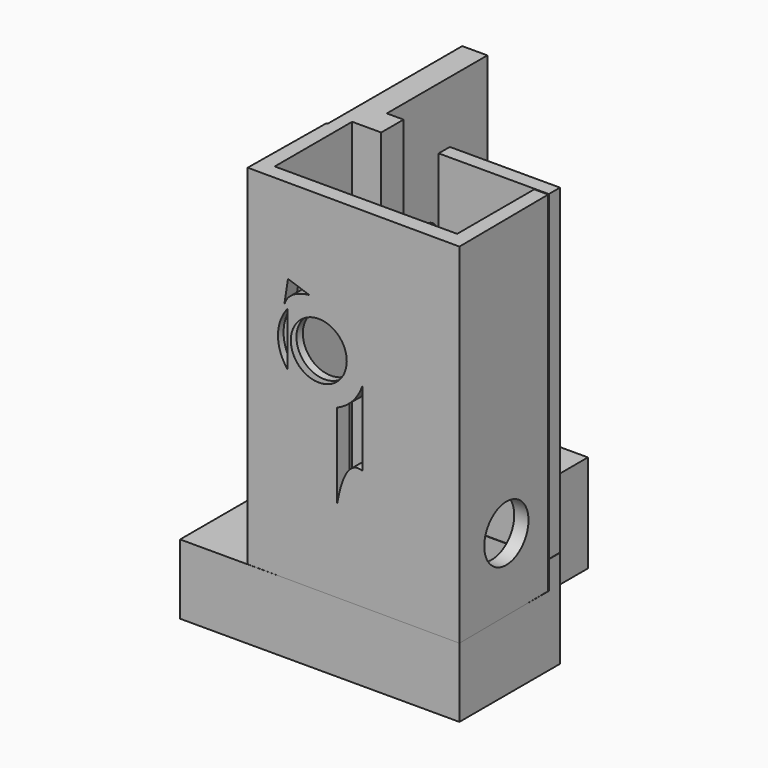
from build123d import *

# Parameters (mm, degrees)
SKETCH_W           = 20
SKETCH_H           = 11
PAD_DEPTH          = 21
SKETCH001_W        = 20
SKETCH001_H        = 5
PAD001_DEPTH       = 8
SKETCH002_W        = 6.4
SKETCH002_H        = 9.70104
POCKET_DEPTH       = 16
SKETCH003_W        = 4
SKETCH003_H        = 2.091244
POCKET001_DEPTH    = 16
SKETCH005_R        = 2.7
POCKET002_DEPTH    = 3
SKETCH006_R        = 1.7
POCKET003_DEPTH    = 15
PAD002_DEPTH       = 1
PAD003_DEPTH       = 1
PAD004_DEPTH       = 8
PAD005_DEPTH       = 8
PAD006_DEPTH       = 1
PAD007_DEPTH       = 1
PAD007_FACE27_W    = 9
PAD007_FACE27_H    = 14
PAD008_DEPTH       = 0.1
PAD008_FACE24_W    = 9
PAD008_FACE24_H    = 14
PAD009_DEPTH       = 0.1
SKETCH009_W        = 11.765216
SKETCH009_H        = 12.105414
POCKET007_DEPTH    = 23
SKETCH010_W        = 8
SKETCH010_H        = 5
PAD010_DEPTH       = 6
PAD011_DEPTH       = 25
SKETCH012_W        = 7.888134
SKETCH012_H        = 1
PAD012_DEPTH       = 23
SKETCH014_R        = 2
POCKET008_DEPTH    = 5
SKETCH016_W        = 9.43169
SKETCH016_H        = 30.019524
POCKET010_DEPTH    = 5
SKETCH019_W        = 10.102889
SKETCH019_H        = 7.195522
POCKET012_DEPTH    = 6
SKETCH020_R        = 4.8264255923
POCKET014_DEPTH    = 0.5
POCKET015_DEPTH    = 2
COPYSKETCH024_R    = 1.1
POCKET017_DEPTH    = 3
SKETCH025_R        = 1.7
POCKET018_DEPTH    = 1
SKETCH026_R        = 2.010288662
POCKET019_DEPTH    = 5
COPYSKETCH027_R    = 2.99206
POCKET020_DEPTH    = 0.5
COPYSKETCH027001_W = 6.010766
COPYSKETCH027001_H = 4.360142
POCKET021_DEPTH    = 25


with BuildPart() as part:
    # Sketch → Pad (new body)
    with BuildSketch(Plane.XY):
        Rectangle(SKETCH_W, SKETCH_H)
    extrude(amount=PAD_DEPTH)

    # Sketch001 (on Face1 of Pad) → Pad001 (join)
    with BuildSketch(Plane.XZ.offset(5.5)):
        with Locations((0, 2.5)):
            Rectangle(SKETCH001_W, SKETCH001_H)
    extrude(amount=PAD001_DEPTH)

    # Sketch002 (on Face4 of Pad001) → Pocket (cut)
    with BuildSketch(Plane.XY.offset(21)):
        with Locations((0, 1.35052)):
            Rectangle(SKETCH002_W, SKETCH002_H)
    extrude(amount=-POCKET_DEPTH, mode=Mode.SUBTRACT)

    # Sketch003 (on Face4 of Pocket) → Pocket001 (cut)
    with BuildSketch(Plane.XY.offset(21)):
        with Locations((0, -4.482633)):
            Rectangle(SKETCH003_W, SKETCH003_H)
    extrude(amount=-POCKET001_DEPTH, mode=Mode.SUBTRACT)

    # Sketch005 (on Face5 of Pocket001) → Pocket002 (cut)
    with BuildSketch(Plane.XY.offset(5)):
        with Locations((0, -9.4740693718)):
            Circle(SKETCH005_R)
    extrude(amount=-POCKET002_DEPTH, mode=Mode.SUBTRACT)

    # Sketch006 (on Face24 of Pocket002) → Pocket003 (cut)
    with BuildSketch(Plane.XY.offset(2)):
        with Locations((0, -9.4740693718)):
            Circle(SKETCH006_R)
    extrude(amount=-POCKET003_DEPTH, mode=Mode.SUBTRACT)

    # Pocket003 Face21 → Pad002 (add)
    with BuildSketch(Plane(origin=(0, 1.0196321739, 5), x_dir=(0, 1, 0), z_dir=(0, 0, 1))):
        Polygon((4.4803678261, -3.2), (4.4803678261, 3.2), (-4.5196321739, 3.2), (-4.5196321739, 2), (-4.4566431739, 2), (-4.4566431739, -2), (-4.5196321739, -2), (-4.5196321739, -3.2), align=None)
    extrude(amount=PAD002_DEPTH)

    # Pad002 Face3 → Pad003 (add)
    with BuildSketch(Plane(origin=(6.4756476684, -0.1398963731, 21), x_dir=(0, 1, 0), z_dir=(0, 0, 1))):
        Polygon((-3.3601036269, 4.4756476684), (-5.3601036269, 4.4756476684), (-5.3601036269, -3.5243523316), (5.6398963731, -3.5243523316), (5.6398963731, 3.2756476684), (-3.3601036269, 3.2756476684), align=None)
    extrude(amount=PAD003_DEPTH)

    # Pad003 Face22 → Pad004 (add)
    with BuildSketch(Plane(origin=(-6.4756476684, -0.1398963731, 21), x_dir=(0, 1, 0), z_dir=(0, 0, 1))):
        Polygon((5.6398963731, -3.2756476684), (5.6398963731, 3.5243523316), (-5.3601036269, 3.5243523316), (-5.3601036269, -4.4756476684), (-3.3601036269, -4.4756476684), (-3.3601036269, -3.2756476684), align=None)
    extrude(amount=PAD004_DEPTH)

    # Pad004 Face11 → Pad005 (add)
    with BuildSketch(Plane(origin=(6.4756476684, -0.1398963731, 22), x_dir=(0, 1, 0), z_dir=(0, 0, 1))):
        Polygon((-3.3601036269, 4.4756476684), (-5.3601036269, 4.4756476684), (-5.3601036269, -3.5243523316), (5.6398963731, -3.5243523316), (5.6398963731, 3.2756476684), (-3.3601036269, 3.2756476684), align=None)
    extrude(amount=PAD005_DEPTH)

    # Pad005 Face40 → Pad006 (add)
    with BuildSketch(Plane(origin=(-6.4756476684, -0.1398963731, 29), x_dir=(0, 1, 0), z_dir=(0, 0, 1))):
        Polygon((5.6398963731, -3.2756476684), (5.6398963731, 3.5243523316), (-5.3601036269, 3.5243523316), (-5.3601036269, -4.4756476684), (-3.3601036269, -4.4756476684), (-3.3601036269, -3.2756476684), align=None)
    extrude(amount=PAD006_DEPTH)

    # Pad006 Face33 → Pad007 (add)
    with BuildSketch(Plane(origin=(0, 1.0196321739, 6), x_dir=(0, 1, 0), z_dir=(0, 0, 1))):
        Polygon((4.4803678261, -3.2), (4.4803678261, 3.2), (-4.5196321739, 3.2), (-4.5196321739, 2), (-4.4566431739, 2), (-4.4566431739, -2), (-4.5196321739, -2), (-4.5196321739, -3.2), align=None)
    extrude(amount=PAD007_DEPTH)

    # Pad007 Face27 → Pad008 (add)
    with BuildSketch(Plane(origin=(3.2, 1, 14), x_dir=(0, 1, 0), z_dir=(-1, 0, 0))):
        Rectangle(PAD007_FACE27_W, PAD007_FACE27_H)
    extrude(amount=PAD008_DEPTH)

    # Pad008 Face24 → Pad009 (add)
    with BuildSketch(Plane(origin=(-3.2, 1, 14), x_dir=(0, -1, 0), z_dir=(1, 0, 0))):
        Rectangle(PAD008_FACE24_W, PAD008_FACE24_H)
    extrude(amount=PAD009_DEPTH)

    # Sketch009 → Pocket007 (cut)
    with BuildSketch(Plane.XY.offset(30)):
        with Locations((7.044694, 0.235483)):
            Rectangle(SKETCH009_W, SKETCH009_H)
    extrude(amount=-POCKET007_DEPTH, mode=Mode.SUBTRACT)

    # Sketch010 → Pad010 (join)
    with BuildSketch(Plane(origin=(-4, 0, 0), x_dir=(0, -1, 0), z_dir=(-1, 0, 0))):
        with Locations((9.5, 2.5)):
            Rectangle(SKETCH010_W, SKETCH010_H)
    extrude(amount=PAD010_DEPTH)

    # Sketch011 (on Face16 of Pad010) → Pad011 (join)
    with BuildSketch(Plane.XY.offset(5)):
        Polygon((-5.0802496781, -5.4306888829), (-5.170571, -13.486972), (10.046902, -13.556283), (9.9827916781, -5.539257), (8.9827916781, -5.527363), (8.9827916781, -12.430687), (-4.0802496781, -12.430687), (-4.0802496781, -5.4306871171), align=None)
    extrude(amount=PAD011_DEPTH)

    # Sketch012 (on Face3 of Pad011) → Pad012 (join)
    with BuildSketch(Plane.XY.offset(7)):
        with Locations((6.031892, -4.9664883219)):
            Rectangle(SKETCH012_W, SKETCH012_H)
    extrude(amount=PAD012_DEPTH)

    # Sketch014 (on Face24 of Pad012) → Pocket008 (cut)
    with BuildSketch(Plane(origin=(9.9378599981, 0.0794707917, 0), x_dir=(-0.0079965154, 0.9999680274, 0), z_dir=(0.9999680274, 0.0079965154, 0))):
        with Locations((-9.393911, 10.196385)):
            Circle(SKETCH014_R)
    extrude(amount=-POCKET008_DEPTH, mode=Mode.SUBTRACT)

    # Sketch016 → Pocket010 (cut)
    with BuildSketch(Plane(origin=(-10, 0, 0), x_dir=(0, -1, 0), z_dir=(-1, 0, 0))):
        with Locations((-1.020089, 15.009762)):
            Rectangle(SKETCH016_W, SKETCH016_H)
    extrude(amount=-POCKET010_DEPTH, mode=Mode.SUBTRACT)

    # Sketch019 → Pocket012 (cut)
    with BuildSketch(Plane.YZ.offset(10)):
        with Locations((0.5744515, 3.409147)):
            Rectangle(SKETCH019_W, SKETCH019_H)
    extrude(amount=-POCKET012_DEPTH, mode=Mode.SUBTRACT)

    # Sketch020 → Pocket014 (cut)
    with BuildSketch(Plane.XY.offset(2)):
        with Locations((-0.021918, 17.928259)):
            Circle(SKETCH020_R)
    extrude(amount=-POCKET014_DEPTH, mode=Mode.SUBTRACT)

    # Sketch022 (on Face189 of Pocket014) → Pocket015 (cut)
    with BuildSketch(Plane.XY.offset(2)):
        with BuildLine():
            add(Edge.make_bspline(
                [(-1.975646, 22.546564), (-3.685938, 22.005808), (-4.331799, 20.570465)],
                knots=[0, 0, 0, 1, 1, 1], degree=2))
            Line((-4.331799, 20.570465), (-4.136705, 22.627766))
            Line((-4.136705, 22.627766), (-1.975646, 22.546564))
        make_face()
    extrude(amount=-POCKET015_DEPTH, mode=Mode.SUBTRACT)

    # CopySketch024 → Pocket017 (cut)
    with BuildSketch(Plane(origin=(-5, 0, 0), x_dir=(0, -1, 0), z_dir=(-1, 0, 0))):
        with Locations((0, 12)):
            Circle(COPYSKETCH024_R)
        with Locations((0, 20.5)):
            Circle(COPYSKETCH024_R)
    extrude(amount=-POCKET017_DEPTH, mode=Mode.SUBTRACT)

    # Sketch025 (on Face29 of Pocket017) → Pocket018 (cut)
    with BuildSketch(Plane(origin=(-5, 0, 0), x_dir=(0, -1, 0), z_dir=(-1, 0, 0))):
        with Locations((0, 20.5)):
            Circle(SKETCH025_R)
        with Locations((0, 12)):
            Circle(SKETCH025_R)
    extrude(amount=-POCKET018_DEPTH, mode=Mode.SUBTRACT)

    # Sketch026 (on Face48 of Pocket018) → Pocket019 (cut)
    with BuildSketch(Plane(origin=(-0.0615350782, -13.5102421178, 0), x_dir=(0.9999896275, -0.0045546512, 0), z_dir=(-0.0045546512, -0.9999896275, 0))):
        with Locations((0, 20.130779)):
            Circle(SKETCH026_R)
        with BuildLine():
            add(Edge.make_bspline(
                [(3.15934, 18.981977), (2.637434, 17.541506), (1.323444, 16.977846)],
                knots=[0, 0, 0, 1, 1, 1], degree=2))
            Line((1.323444, 16.977846), (1.323444, 10.931852))
            add(Edge.make_bspline(
                [(3.15934, 13.575), (1.886149, 14.090854), (1.323444, 10.931852)],
                knots=[0, 0, 0, 1, 1, 1], degree=2))
            Line((3.15934, 13.575), (3.15934, 18.981977))
        make_face()
        with BuildLine():
            add(Edge.make_bspline(
                [(-2.481979, 22.206863), (-2.206434, 23.233652), (-0.682459, 23.421541)],
                knots=[0, 0, 0, 1, 1, 1], degree=2))
            Line((-0.682459, 23.421541), (-2.210586, 23.939598))
            Line((-2.210586, 23.939598), (-2.481979, 22.206863))
        make_face()
    extrude(amount=-POCKET019_DEPTH, mode=Mode.SUBTRACT)

    # CopySketch027 → Pocket020 (cut)
    with BuildSketch(Plane.XZ.offset(13.5)):
        with Locations((0, 20.130779)):
            Circle(COPYSKETCH027_R)
    extrude(amount=-POCKET020_DEPTH, mode=Mode.SUBTRACT)

    # CopySketch027001 → Pocket021 (cut)
    with BuildSketch(Plane.XY.offset(30)):
        with Locations((-8.005399, -4.370609)):
            Rectangle(COPYSKETCH027001_W, COPYSKETCH027001_H)
    extrude(amount=-POCKET021_DEPTH, mode=Mode.SUBTRACT)


solid = part.part
